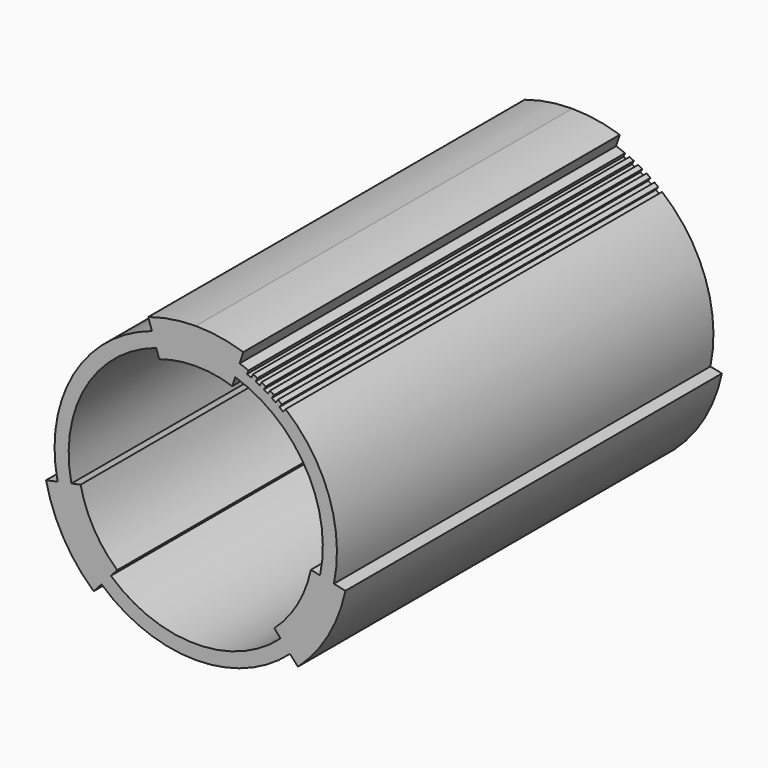
from build123d import *

# Parameters (mm, degrees)
F1_DEPTH = 100


with BuildPart() as f1:
    # F0 (on Front) → F1 (new body)
    with BuildSketch(Plane.XZ):
        with BuildLine():
            Line((-15.323647, 22.809437), (-14.54678, 20.433205))
            ThreePointArc((-14.54678, 20.433205), (-31.205136, 6.918424), (-34.580102, -14.265527))
            Line((-34.580102, -14.265527), (-37.026413, -14.780856))
            ThreePointArc((-37.026413, -14.780856), (-33.3702, -24.331576), (-26.92714, -32.273309))
            Line((-26.92714, -32.273309), (-25.257697, -30.412407))
            ThreePointArc((-25.257697, -30.412407), (-5.224374, -38.081576), (14.808948, -30.412407))
            Line((14.808948, -30.412407), (16.478392, -32.273309))
            ThreePointArc((16.478392, -32.273309), (22.921451, -24.331576), (26.577664, -14.780856))
            Line((26.577664, -14.780856), (24.131354, -14.265527))
            ThreePointArc((24.131354, -14.265527), (23.091117, 1.829678), (13.866516, 15.060116))
            Line((13.866516, 15.060116), (13.326836, 14.405924))
            ThreePointArc((13.326836, 14.405924), (12.941248, 14.718539), (12.550393, 15.024543))
            Line((12.550393, 15.024543), (13.067485, 15.696731))
            ThreePointArc((13.067485, 15.696731), (12.659955, 16.004743), (12.247241, 16.30577))
            Line((12.247241, 16.30577), (11.753336, 15.616366))
            ThreePointArc((11.753336, 15.616366), (11.347366, 15.902013), (10.93659, 16.180706))
            Line((10.93659, 16.180706), (11.406734, 16.886528))
            ThreePointArc((11.406734, 16.886528), (10.979187, 17.166089), (10.546941, 17.43833))
            Line((10.546941, 17.43833), (10.101103, 16.716909))
            ThreePointArc((10.101103, 16.716909), (9.676632, 16.974263), (9.247842, 17.224353))
            Line((9.247842, 17.224353), (9.668858, 17.960536))
            ThreePointArc((9.668858, 17.960536), (9.223275, 18.210351), (8.773503, 18.452542))
            Line((8.773503, 18.452542), (8.377798, 17.70245))
            ThreePointArc((8.377798, 17.70245), (7.936796, 17.930319), (7.491979, 18.150645))
            Line((7.491979, 18.150645), (7.861915, 18.913776))
            ThreePointArc((7.861915, 18.913776), (7.400363, 19.132685), (6.93515, 19.343703))
            Line((6.93515, 19.343703), (6.591413, 18.568419))
            ThreePointArc((6.591413, 18.568419), (6.135926, 18.765745), (5.677145, 18.955287))
            Line((5.677145, 18.955287), (5.994285, 19.741826))
            ThreePointArc((5.994285, 19.741826), (5.051974, 20.103467), (4.098031, 20.433205))
            Line((4.098031, 20.433205), (4.874898, 22.809437))
            ThreePointArc((4.874898, 22.809437), (-0.111055, 24.013656), (-5.224374, 24.418424))
            ThreePointArc((-5.224374, 24.418424), (-10.337694, 24.013656), (-15.323647, 22.809437))
        make_face()
        with BuildLine():
            ThreePointArc((-12.993045, 15.680742), (-9.157697, 16.607064), (-5.224374, 16.918424))
            ThreePointArc((-5.224374, 16.918424), (-1.291052, 16.607064), (2.544297, 15.680742))
            Line((2.544297, 15.680742), (3.165791, 17.581727))
            ThreePointArc((3.165791, 17.581727), (18.158312, 5.418424), (21.195781, -13.647132))
            Line((21.195781, -13.647132), (19.238732, -13.234869))
            ThreePointArc((19.238732, -13.234869), (16.426261, -20.581576), (11.470061, -26.690602))
            Line((11.470061, -26.690602), (12.805616, -28.179324))
            ThreePointArc((12.805616, -28.179324), (-5.224374, -35.081576), (-23.254364, -28.179324))
            Line((-23.254364, -28.179324), (-21.91881, -26.690602))
            ThreePointArc((-21.91881, -26.690602), (-26.875009, -20.581576), (-29.687481, -13.234869))
            Line((-29.687481, -13.234869), (-31.644529, -13.647132))
            ThreePointArc((-31.644529, -13.647132), (-28.60706, 5.418424), (-13.614539, 17.581727))
            Line((-13.614539, 17.581727), (-12.993045, 15.680742))
        make_face(mode=Mode.SUBTRACT)
    extrude(amount=F1_DEPTH)


solid = f1.part
